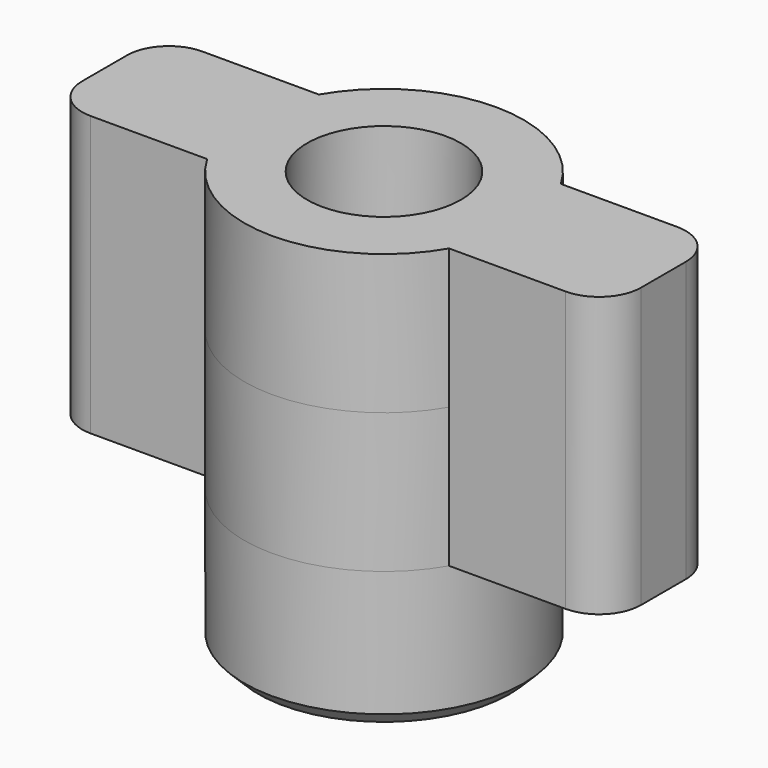
from build123d import *

# Parameters (mm, degrees)
F0_R     = 5
F0_R_2   = 2.1
F1_DEPTH = 10
F2_R     = 2.75
F3_DEPTH = 5
F4_SIZE  = 0.5


with BuildPart() as f1:
    # F0 (on Top) → F1 (new body)
    with BuildSketch(Plane.XY):
        Circle(F0_R)
        Circle(F0_R_2, mode=Mode.SUBTRACT)
    extrude(amount=F1_DEPTH)

    # F2 (on face) → F3 (join, symmetric)
    with BuildSketch(Plane.XY.offset(10)):
        with BuildLine():
            ThreePointArc((5, 0), (4.829629, 1.294095), (4.330127, 2.5))
            ThreePointArc((4.330127, 2.5), (0, 5), (-4.330127, 2.5))
            ThreePointArc((-4.330127, 2.5), (-5, 0), (-4.330127, -2.5))
            ThreePointArc((-4.330127, -2.5), (0, -5), (4.330127, -2.5))
            ThreePointArc((4.330127, -2.5), (4.829629, -1.294095), (5, 0))
        make_face()
        Circle(F2_R, mode=Mode.SUBTRACT)
        with BuildLine():
            Line((8.5, 2.5), (4.330127, 2.5))
            ThreePointArc((4.330127, 2.5), (4.829629, 1.294095), (5, 0))
            ThreePointArc((5, 0), (4.829629, -1.294095), (4.330127, -2.5))
            Line((4.330127, -2.5), (8.5, -2.5))
            ThreePointArc((8.5, -2.5), (9.56066, -2.06066), (10, -1))
            Line((10, -1), (10, 1))
            ThreePointArc((10, 1), (9.56066, 2.06066), (8.5, 2.5))
        make_face()
        with BuildLine():
            ThreePointArc((-4.330127, -2.5), (-5, 0), (-4.330127, 2.5))
            Line((-4.330127, 2.5), (-8.5, 2.5))
            ThreePointArc((-8.5, 2.5), (-9.56066, 2.06066), (-10, 1))
            Line((-10, 1), (-10, -1))
            ThreePointArc((-10, -1), (-9.56066, -2.06066), (-8.5, -2.5))
            Line((-8.5, -2.5), (-4.330127, -2.5))
        make_face()
    extrude(amount=F3_DEPTH, both=True)

    # F4
    f4_edges = [f1.edges().sort_by_distance(p)[0] for p in [
        (-5, 0, 0),
        (-2.1, 0, 0),
    ]]
    chamfer(f4_edges, length=F4_SIZE)


solid = f1.part
